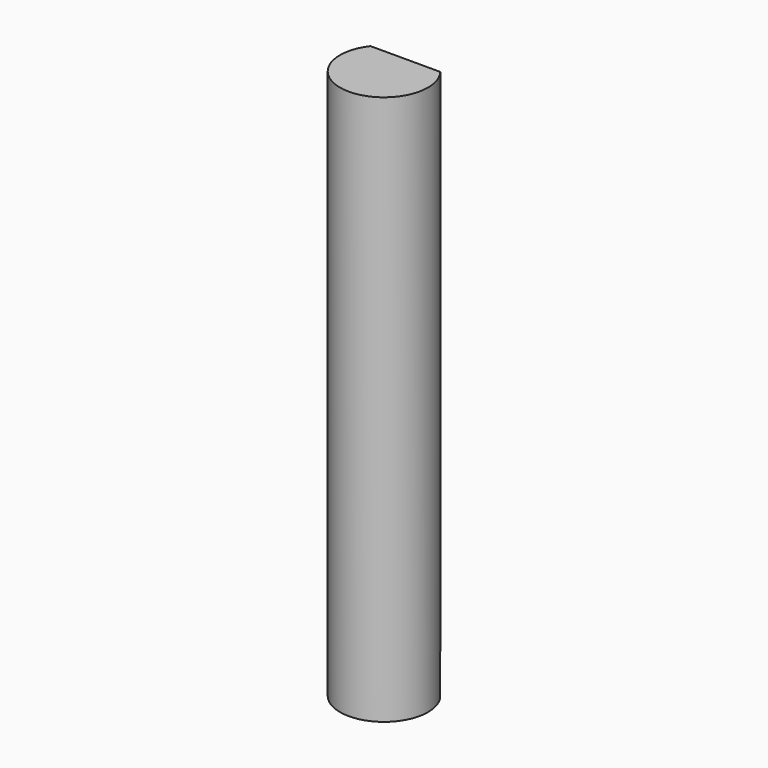
from build123d import *

# Parameters (mm, degrees)
F0_R     = 2
F1_DEPTH = 25
F3_DEPTH = 4


with BuildPart() as f1:
    # F0 (on Top) → F1 (new body)
    with BuildSketch(Plane.XY):
        Circle(F0_R)
    extrude(amount=F1_DEPTH)

    # F2 (on face) → F3 (cut)
    with BuildSketch(Plane.XY.offset(25)):
        with BuildLine():
            ThreePointArc((1.588994, 1.214536), (0, 2), (-1.588994, 1.214536))
            Line((-1.588994, 1.214536), (1.588994, 1.214536))
        make_face()
    extrude(amount=-F3_DEPTH, mode=Mode.SUBTRACT)


solid = f1.part
